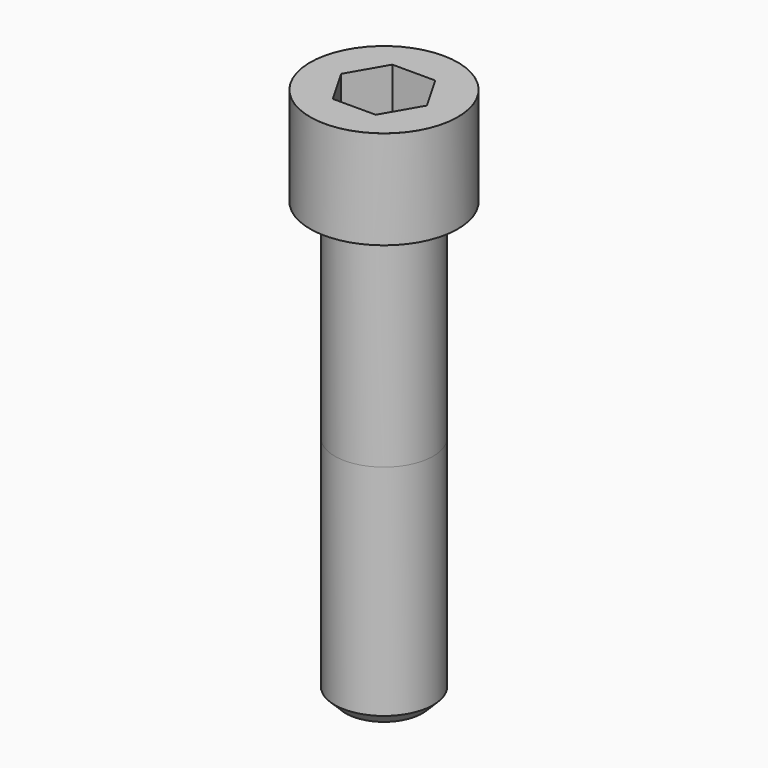
from build123d import *

# Parameters (mm, degrees)
POCKET_DEPTH = 27.15


with BuildPart() as part:
    # Sketch → Revolve (revolve)
    with BuildSketch(Plane.YZ):
        with BuildLine():
            Line((17.999, 0), (27, 0))
            Line((27, 0), (27, 35.97229))
            ThreePointArc((27, 35.97229), (26.991884, 35.991884), (26.97229, 36))
            Line((26.97229, 36), (0, 36))
            Line((0, -160), (0, 36))
            Line((14, -160), (0, -160))
            Line((18, -156), (14, -160))
            Line((18, -76), (18, -156))
            Line((17.999, 0), (18, -76))
        make_face()
    revolve(axis=Axis((0, 0, 0), (0, 0, 1)))

    # Sketch001 → Pocket (cut)
    with BuildSketch(Plane.XY.offset(36)):
        Polygon((15.67506, 0), (7.83753, 13.575), (-7.83753, 13.575), (-15.67506, 0), (-7.83753, -13.575), (7.83753, -13.575), align=None)
    extrude(amount=-POCKET_DEPTH, mode=Mode.SUBTRACT)


solid = part.part
